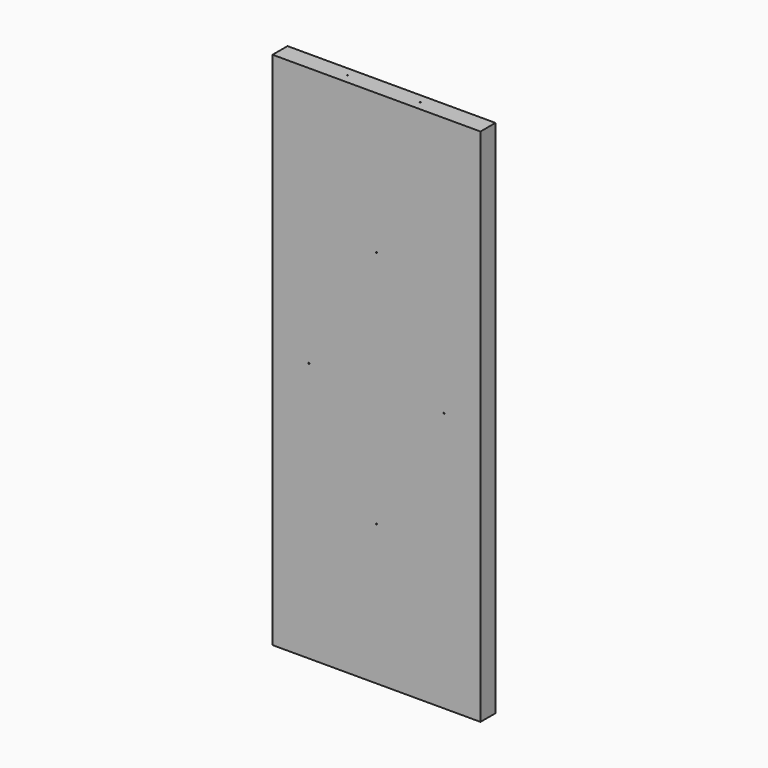
from build123d import *

# Parameters (mm, degrees)
F0_W     = 200
F0_H     = 500
F0_R     = 0.5
F1_DEPTH = 18
F2_R     = 0.5
F3_DEPTH = 1
F4_R     = 0.5
F5_DEPTH = 1


with BuildPart() as f1:
    # F0 (on Front) → F1 (new body)
    with BuildSketch(Plane.XZ):
        with Locations((100, 250)):
            Rectangle(F0_W, F0_H)
        with Locations((100, 135)):
            Circle(F0_R, mode=Mode.SUBTRACT)
        with Locations((35, 250)):
            Circle(F0_R, mode=Mode.SUBTRACT)
        with Locations((100, 365)):
            Circle(F0_R, mode=Mode.SUBTRACT)
        with Locations((165, 250)):
            Circle(F0_R, mode=Mode.SUBTRACT)
    extrude(amount=F1_DEPTH)

    # F2 (on face) → F3 (cut)
    with BuildSketch(Plane.XY.offset(500)):
        with Locations((65, -9)):
            Circle(F2_R)
        with Locations((135, -9)):
            Circle(F2_R)
    extrude(amount=-F3_DEPTH, mode=Mode.SUBTRACT)

    # F4 (on face) → F5 (cut)
    with BuildSketch(Plane(origin=(0, 0, 0), x_dir=(1, 0, 0), z_dir=(0, 0, -1))):
        with Locations((65, 9)):
            Circle(F4_R)
        with Locations((135, 9)):
            Circle(F4_R)
    extrude(amount=-F5_DEPTH, mode=Mode.SUBTRACT)


solid = f1.part
